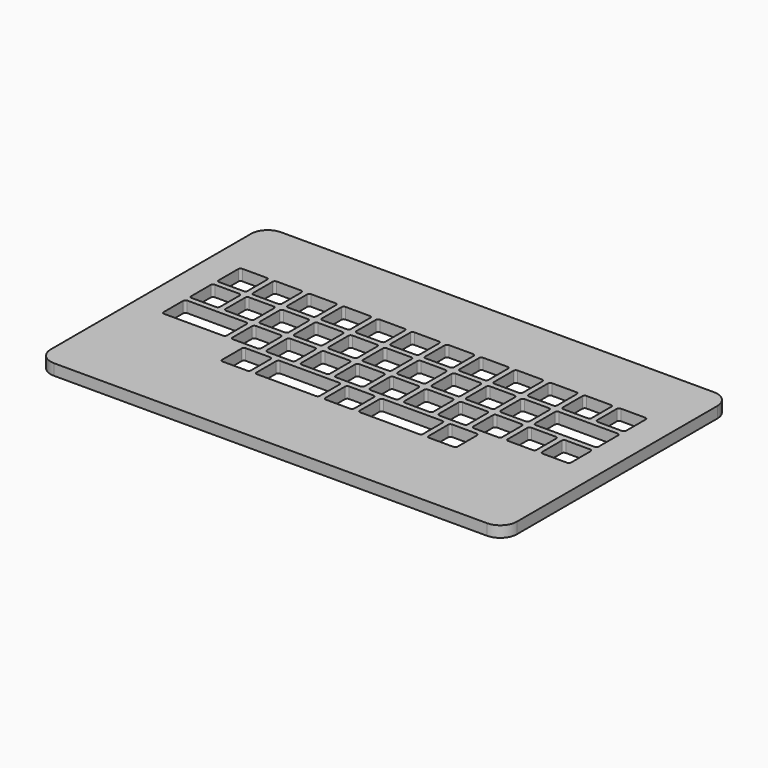
from build123d import *

# Parameters (mm, degrees)
F1_DEPTH = 5
F3_DEPTH = 5


with BuildPart() as f1:
    # F0 (on Top) → F1 (new body)
    with BuildSketch(Plane.XY):
        with BuildLine():
            ThreePointArc((93, -27.5), (93.07612, -27.882683), (93.292893, -28.207107))
            ThreePointArc((93.292893, -28.207107), (93.617317, -28.42388), (94, -28.5))
            Line((94, -28.5), (105, -28.5))
            ThreePointArc((105, -28.5), (105.707107, -28.207107), (106, -27.5))
            Line((106, -27.5), (106, -16.5))
            ThreePointArc((106, -16.5), (105.707107, -15.792893), (105, -15.5))
            Line((105, -15.5), (94, -15.5))
            ThreePointArc((94, -15.5), (93.292893, -15.792893), (93, -16.5))
            Line((93, -16.5), (93, -27.5))
        make_face()
        with BuildLine():
            ThreePointArc((90.5, -32), (90.42388, -31.617317), (90.207107, -31.292893))
            ThreePointArc((90.207107, -31.292893), (89.882683, -31.07612), (89.5, -31))
            Line((89.5, -31), (78.5, -31))
            ThreePointArc((78.5, -31), (77.792893, -31.292893), (77.5, -32))
            Line((77.5, -32), (77.5, -43))
            ThreePointArc((77.5, -43), (77.792893, -43.707107), (78.5, -44))
            Line((78.5, -44), (89.5, -44))
            ThreePointArc((89.5, -44), (90.207107, -43.707107), (90.5, -43))
            Line((90.5, -43), (90.5, -32))
        make_face()
        with BuildLine():
            Line((89.5, -15.5), (78.5, -15.5))
            ThreePointArc((78.5, -15.5), (77.792893, -15.792893), (77.5, -16.5))
            Line((77.5, -16.5), (77.5, -27.5))
            ThreePointArc((77.5, -27.5), (77.792893, -28.207107), (78.5, -28.5))
            Line((78.5, -28.5), (89.5, -28.5))
            ThreePointArc((89.5, -28.5), (89.882683, -28.42388), (90.207107, -28.207107))
            ThreePointArc((90.207107, -28.207107), (90.42388, -27.882683), (90.5, -27.5))
            Line((90.5, -27.5), (90.5, -16.5))
            ThreePointArc((90.5, -16.5), (90.207107, -15.792893), (89.5, -15.5))
        make_face()
        with BuildLine():
            ThreePointArc((196.75, 22.75), (194.553301, 28.053301), (189.25, 30.25))
            Line((189.25, 30.25), (-5.75, 30.25))
            ThreePointArc((-5.75, 30.25), (-11.053301, 28.053301), (-13.25, 22.75))
            Line((-13.25, 22.75), (-13.25, -82.25))
            ThreePointArc((-13.25, -82.25), (-11.053301, -87.553301), (-5.75, -89.75))
            Line((-5.75, -89.75), (189.25, -89.75))
            ThreePointArc((189.25, -89.75), (194.553301, -87.553301), (196.75, -82.25))
            Line((196.75, -82.25), (196.75, 22.75))
        make_face()
        with BuildLine():
            Line((12, -31), (16.5, -31))
            Line((16.5, -31), (27.5, -31))
            ThreePointArc((27.5, -31), (28.207107, -31.292893), (28.5, -32))
            Line((28.5, -32), (28.5, -43))
            ThreePointArc((28.5, -43), (28.207107, -43.707107), (27.5, -44))
            Line((27.5, -44), (16.5, -44))
            Line((16.5, -44), (12, -44))
            Line((12, -44), (1, -44))
            ThreePointArc((1, -44), (0.292893, -43.707107), (0, -43))
            Line((0, -43), (0, -32))
            ThreePointArc((0, -32), (0.292893, -31.292893), (1, -31))
            Line((1, -31), (12, -31))
        make_face(mode=Mode.SUBTRACT)
        with BuildLine():
            Line((31, -43), (31, -32))
            ThreePointArc((31, -32), (31.292893, -31.292893), (32, -31))
            Line((32, -31), (43, -31))
            ThreePointArc((43, -31), (43.707107, -31.292893), (44, -32))
            Line((44, -32), (44, -43))
            ThreePointArc((44, -43), (43.707107, -43.707107), (43, -44))
            Line((43, -44), (32, -44))
            ThreePointArc((32, -44), (31.292893, -43.707107), (31, -43))
        make_face(mode=Mode.SUBTRACT)
        with BuildLine():
            Line((50.75, -59.5), (39.75, -59.5))
            ThreePointArc((39.75, -59.5), (39.042893, -59.207107), (38.75, -58.5))
            Line((38.75, -58.5), (38.75, -47.5))
            ThreePointArc((38.75, -47.5), (39.042893, -46.792893), (39.75, -46.5))
            Line((39.75, -46.5), (50.75, -46.5))
            ThreePointArc((50.75, -46.5), (51.457107, -46.792893), (51.75, -47.5))
            Line((51.75, -47.5), (51.75, -58.5))
            ThreePointArc((51.75, -58.5), (51.457107, -59.207107), (50.75, -59.5))
        make_face(mode=Mode.SUBTRACT)
        with BuildLine():
            Line((81.75, -59.5), (55.25, -59.5))
            ThreePointArc((55.25, -59.5), (54.542893, -59.207107), (54.25, -58.5))
            Line((54.25, -58.5), (54.25, -47.5))
            ThreePointArc((54.25, -47.5), (54.542893, -46.792893), (55.25, -46.5))
            Line((55.25, -46.5), (81.75, -46.5))
            ThreePointArc((81.75, -46.5), (82.457107, -46.792893), (82.75, -47.5))
            Line((82.75, -47.5), (82.75, -58.5))
            ThreePointArc((82.75, -58.5), (82.457107, -59.207107), (81.75, -59.5))
        make_face(mode=Mode.SUBTRACT)
        with BuildLine():
            ThreePointArc((46.5, -32), (46.792893, -31.292893), (47.5, -31))
            Line((47.5, -31), (58.5, -31))
            ThreePointArc((58.5, -31), (59.207107, -31.292893), (59.5, -32))
            Line((59.5, -32), (59.5, -43))
            ThreePointArc((59.5, -43), (59.207107, -43.707107), (58.5, -44))
            Line((58.5, -44), (47.5, -44))
            ThreePointArc((47.5, -44), (46.792893, -43.707107), (46.5, -43))
            Line((46.5, -43), (46.5, -32))
        make_face(mode=Mode.SUBTRACT)
        with BuildLine():
            ThreePointArc((62, -32), (62.292893, -31.292893), (63, -31))
            Line((63, -31), (74, -31))
            ThreePointArc((74, -31), (74.707107, -31.292893), (75, -32))
            Line((75, -32), (75, -43))
            ThreePointArc((75, -43), (74.707107, -43.707107), (74, -44))
            Line((74, -44), (63, -44))
            ThreePointArc((63, -44), (62.292893, -43.707107), (62, -43))
            Line((62, -43), (62, -32))
        make_face(mode=Mode.SUBTRACT)
        with BuildLine():
            ThreePointArc((89.5, -31), (89.882683, -31.07612), (90.207107, -31.292893))
            ThreePointArc((90.207107, -31.292893), (90.42388, -31.617317), (90.5, -32))
            Line((90.5, -32), (90.5, -43))
            ThreePointArc((90.5, -43), (90.207107, -43.707107), (89.5, -44))
            Line((89.5, -44), (78.5, -44))
            ThreePointArc((78.5, -44), (77.792893, -43.707107), (77.5, -43))
            Line((77.5, -43), (77.5, -32))
            ThreePointArc((77.5, -32), (77.792893, -31.292893), (78.5, -31))
            Line((78.5, -31), (89.5, -31))
        make_face(mode=Mode.SUBTRACT)
        with BuildLine():
            Line((86.25, -46.5), (91.75, -46.5))
            Line((91.75, -46.5), (97.25, -46.5))
            ThreePointArc((97.25, -46.5), (97.957107, -46.792893), (98.25, -47.5))
            Line((98.25, -47.5), (98.25, -58.5))
            ThreePointArc((98.25, -58.5), (97.957107, -59.207107), (97.25, -59.5))
            Line((97.25, -59.5), (91.75, -59.5))
            Line((91.75, -59.5), (86.25, -59.5))
            ThreePointArc((86.25, -59.5), (85.542893, -59.207107), (85.25, -58.5))
            Line((85.25, -58.5), (85.25, -47.5))
            ThreePointArc((85.25, -47.5), (85.542893, -46.792893), (86.25, -46.5))
        make_face(mode=Mode.SUBTRACT)
        with BuildLine():
            ThreePointArc((100.75, -47.5), (101.042893, -46.792893), (101.75, -46.5))
            Line((101.75, -46.5), (128.25, -46.5))
            ThreePointArc((128.25, -46.5), (128.957107, -46.792893), (129.25, -47.5))
            Line((129.25, -47.5), (129.25, -58.5))
            ThreePointArc((129.25, -58.5), (128.957107, -59.207107), (128.25, -59.5))
            Line((128.25, -59.5), (101.75, -59.5))
            ThreePointArc((101.75, -59.5), (101.042893, -59.207107), (100.75, -58.5))
            Line((100.75, -58.5), (100.75, -47.5))
        make_face(mode=Mode.SUBTRACT)
        with BuildLine():
            ThreePointArc((131.75, -47.5), (132.042893, -46.792893), (132.75, -46.5))
            Line((132.75, -46.5), (143.75, -46.5))
            ThreePointArc((143.75, -46.5), (144.457107, -46.792893), (144.75, -47.5))
            Line((144.75, -47.5), (144.75, -58.5))
            ThreePointArc((144.75, -58.5), (144.457107, -59.207107), (143.75, -59.5))
            Line((143.75, -59.5), (132.75, -59.5))
            ThreePointArc((132.75, -59.5), (132.042893, -59.207107), (131.75, -58.5))
            Line((131.75, -58.5), (131.75, -47.5))
        make_face(mode=Mode.SUBTRACT)
        with BuildLine():
            Line((105, -44), (94, -44))
            ThreePointArc((94, -44), (93.292893, -43.707107), (93, -43))
            Line((93, -43), (93, -32))
            ThreePointArc((93, -32), (93.292893, -31.292893), (94, -31))
            Line((94, -31), (105, -31))
            ThreePointArc((105, -31), (105.707107, -31.292893), (106, -32))
            Line((106, -32), (106, -43))
            ThreePointArc((106, -43), (105.707107, -43.707107), (105, -44))
        make_face(mode=Mode.SUBTRACT)
        with BuildLine():
            ThreePointArc((120.5, -31), (121.207107, -31.292893), (121.5, -32))
            Line((121.5, -32), (121.5, -43))
            ThreePointArc((121.5, -43), (121.207107, -43.707107), (120.5, -44))
            Line((120.5, -44), (109.5, -44))
            ThreePointArc((109.5, -44), (108.792893, -43.707107), (108.5, -43))
            Line((108.5, -43), (108.5, -32))
            ThreePointArc((108.5, -32), (108.792893, -31.292893), (109.5, -31))
            Line((109.5, -31), (120.5, -31))
        make_face(mode=Mode.SUBTRACT)
        with BuildLine():
            ThreePointArc((124, -32), (124.292893, -31.292893), (125, -31))
            Line((125, -31), (136, -31))
            ThreePointArc((136, -31), (136.707107, -31.292893), (137, -32))
            Line((137, -32), (137, -43))
            ThreePointArc((137, -43), (136.707107, -43.707107), (136, -44))
            Line((136, -44), (125, -44))
            ThreePointArc((125, -44), (124.292893, -43.707107), (124, -43))
            Line((124, -43), (124, -32))
        make_face(mode=Mode.SUBTRACT)
        with BuildLine():
            ThreePointArc((139.5, -32), (139.792893, -31.292893), (140.5, -31))
            Line((140.5, -31), (151.5, -31))
            ThreePointArc((151.5, -31), (152.207107, -31.292893), (152.5, -32))
            Line((152.5, -32), (152.5, -43))
            ThreePointArc((152.5, -43), (152.207107, -43.707107), (151.5, -44))
            Line((151.5, -44), (140.5, -44))
            ThreePointArc((140.5, -44), (139.792893, -43.707107), (139.5, -43))
            Line((139.5, -43), (139.5, -32))
        make_face(mode=Mode.SUBTRACT)
        with BuildLine():
            ThreePointArc((167, -31), (167.707107, -31.292893), (168, -32))
            Line((168, -32), (168, -43))
            ThreePointArc((168, -43), (167.707107, -43.707107), (167, -44))
            Line((167, -44), (156, -44))
            ThreePointArc((156, -44), (155.292893, -43.707107), (155, -43))
            Line((155, -43), (155, -32))
            ThreePointArc((155, -32), (155.292893, -31.292893), (156, -31))
            Line((156, -31), (167, -31))
        make_face(mode=Mode.SUBTRACT)
        with BuildLine():
            ThreePointArc((170.5, -32), (170.792893, -31.292893), (171.5, -31))
            Line((171.5, -31), (182.5, -31))
            ThreePointArc((182.5, -31), (183.207107, -31.292893), (183.5, -32))
            Line((183.5, -32), (183.5, -43))
            ThreePointArc((183.5, -43), (183.207107, -43.707107), (182.5, -44))
            Line((182.5, -44), (171.5, -44))
            ThreePointArc((171.5, -44), (170.792893, -43.707107), (170.5, -43))
            Line((170.5, -43), (170.5, -32))
        make_face(mode=Mode.SUBTRACT)
        with BuildLine():
            ThreePointArc((12, -15.5), (12.707107, -15.792893), (13, -16.5))
            Line((13, -16.5), (13, -27.5))
            ThreePointArc((13, -27.5), (12.707107, -28.207107), (12, -28.5))
            Line((12, -28.5), (1, -28.5))
            ThreePointArc((1, -28.5), (0.292893, -28.207107), (0, -27.5))
            Line((0, -27.5), (0, -16.5))
            ThreePointArc((0, -16.5), (0.292893, -15.792893), (1, -15.5))
            Line((1, -15.5), (12, -15.5))
        make_face(mode=Mode.SUBTRACT)
        with BuildLine():
            ThreePointArc((15.5, -16.5), (15.792893, -15.792893), (16.5, -15.5))
            Line((16.5, -15.5), (27.5, -15.5))
            ThreePointArc((27.5, -15.5), (28.207107, -15.792893), (28.5, -16.5))
            Line((28.5, -16.5), (28.5, -27.5))
            ThreePointArc((28.5, -27.5), (28.207107, -28.207107), (27.5, -28.5))
            Line((27.5, -28.5), (16.5, -28.5))
            ThreePointArc((16.5, -28.5), (15.792893, -28.207107), (15.5, -27.5))
            Line((15.5, -27.5), (15.5, -16.5))
        make_face(mode=Mode.SUBTRACT)
        with BuildLine():
            Line((31, -27.5), (31, -16.5))
            ThreePointArc((31, -16.5), (31.292893, -15.792893), (32, -15.5))
            Line((32, -15.5), (43, -15.5))
            ThreePointArc((43, -15.5), (43.707107, -15.792893), (44, -16.5))
            Line((44, -16.5), (44, -27.5))
            ThreePointArc((44, -27.5), (43.707107, -28.207107), (43, -28.5))
            Line((43, -28.5), (32, -28.5))
            ThreePointArc((32, -28.5), (31.292893, -28.207107), (31, -27.5))
        make_face(mode=Mode.SUBTRACT)
        with BuildLine():
            ThreePointArc((0, -1), (0.292893, -0.292893), (1, 0))
            Line((1, 0), (12, 0))
            ThreePointArc((12, 0), (12.707107, -0.292893), (13, -1))
            Line((13, -1), (13, -12))
            ThreePointArc((13, -12), (12.707107, -12.707107), (12, -13))
            Line((12, -13), (1, -13))
            ThreePointArc((1, -13), (0.292893, -12.707107), (0, -12))
            Line((0, -12), (0, -1))
        make_face(mode=Mode.SUBTRACT)
        with BuildLine():
            Line((27.5, -13), (16.5, -13))
            ThreePointArc((16.5, -13), (15.792893, -12.707107), (15.5, -12))
            Line((15.5, -12), (15.5, -1))
            ThreePointArc((15.5, -1), (15.792893, -0.292893), (16.5, 0))
            Line((16.5, 0), (27.5, 0))
            ThreePointArc((27.5, 0), (28.207107, -0.292893), (28.5, -1))
            Line((28.5, -1), (28.5, -12))
            ThreePointArc((28.5, -12), (28.207107, -12.707107), (27.5, -13))
        make_face(mode=Mode.SUBTRACT)
        with BuildLine():
            Line((43, -13), (32, -13))
            ThreePointArc((32, -13), (31.292893, -12.707107), (31, -12))
            Line((31, -12), (31, -1))
            ThreePointArc((31, -1), (31.292893, -0.292893), (32, 0))
            Line((32, 0), (43, 0))
            ThreePointArc((43, 0), (43.707107, -0.292893), (44, -1))
            Line((44, -1), (44, -12))
            ThreePointArc((44, -12), (43.707107, -12.707107), (43, -13))
        make_face(mode=Mode.SUBTRACT)
        with BuildLine():
            ThreePointArc((46.5, -16.5), (46.792893, -15.792893), (47.5, -15.5))
            Line((47.5, -15.5), (58.5, -15.5))
            ThreePointArc((58.5, -15.5), (59.207107, -15.792893), (59.5, -16.5))
            Line((59.5, -16.5), (59.5, -27.5))
            ThreePointArc((59.5, -27.5), (59.207107, -28.207107), (58.5, -28.5))
            Line((58.5, -28.5), (47.5, -28.5))
            ThreePointArc((47.5, -28.5), (46.792893, -28.207107), (46.5, -27.5))
            Line((46.5, -27.5), (46.5, -16.5))
        make_face(mode=Mode.SUBTRACT)
        with BuildLine():
            ThreePointArc((62, -16.5), (62.292893, -15.792893), (63, -15.5))
            Line((63, -15.5), (74, -15.5))
            ThreePointArc((74, -15.5), (74.707107, -15.792893), (75, -16.5))
            Line((75, -16.5), (75, -27.5))
            ThreePointArc((75, -27.5), (74.707107, -28.207107), (74, -28.5))
            Line((74, -28.5), (63, -28.5))
            ThreePointArc((63, -28.5), (62.292893, -28.207107), (62, -27.5))
            Line((62, -27.5), (62, -16.5))
        make_face(mode=Mode.SUBTRACT)
        with BuildLine():
            ThreePointArc((77.5, -16.5), (77.792893, -15.792893), (78.5, -15.5))
            Line((78.5, -15.5), (89.5, -15.5))
            ThreePointArc((89.5, -15.5), (90.207107, -15.792893), (90.5, -16.5))
            Line((90.5, -16.5), (90.5, -27.5))
            ThreePointArc((90.5, -27.5), (90.42388, -27.882683), (90.207107, -28.207107))
            ThreePointArc((90.207107, -28.207107), (89.882683, -28.42388), (89.5, -28.5))
            Line((89.5, -28.5), (78.5, -28.5))
            ThreePointArc((78.5, -28.5), (77.792893, -28.207107), (77.5, -27.5))
            Line((77.5, -27.5), (77.5, -16.5))
        make_face(mode=Mode.SUBTRACT)
        with BuildLine():
            Line((58.5, -13), (47.5, -13))
            ThreePointArc((47.5, -13), (46.792893, -12.707107), (46.5, -12))
            Line((46.5, -12), (46.5, -1))
            ThreePointArc((46.5, -1), (46.792893, -0.292893), (47.5, 0))
            Line((47.5, 0), (58.5, 0))
            ThreePointArc((58.5, 0), (59.207107, -0.292893), (59.5, -1))
            Line((59.5, -1), (59.5, -12))
            ThreePointArc((59.5, -12), (59.207107, -12.707107), (58.5, -13))
        make_face(mode=Mode.SUBTRACT)
        with BuildLine():
            Line((74, -13), (63, -13))
            ThreePointArc((63, -13), (62.292893, -12.707107), (62, -12))
            Line((62, -12), (62, -1))
            ThreePointArc((62, -1), (62.292893, -0.292893), (63, 0))
            Line((63, 0), (74, 0))
            ThreePointArc((74, 0), (74.707107, -0.292893), (75, -1))
            Line((75, -1), (75, -12))
            ThreePointArc((75, -12), (74.707107, -12.707107), (74, -13))
        make_face(mode=Mode.SUBTRACT)
        with BuildLine():
            Line((89.5, -13), (78.5, -13))
            ThreePointArc((78.5, -13), (77.792893, -12.707107), (77.5, -12))
            Line((77.5, -12), (77.5, -1))
            ThreePointArc((77.5, -1), (77.792893, -0.292893), (78.5, 0))
            Line((78.5, 0), (89.5, 0))
            ThreePointArc((89.5, 0), (90.207107, -0.292893), (90.5, -1))
            Line((90.5, -1), (90.5, -12))
            ThreePointArc((90.5, -12), (90.207107, -12.707107), (89.5, -13))
        make_face(mode=Mode.SUBTRACT)
        with BuildLine():
            ThreePointArc((94, -28.5), (93.617317, -28.42388), (93.292893, -28.207107))
            ThreePointArc((93.292893, -28.207107), (93.07612, -27.882683), (93, -27.5))
            Line((93, -27.5), (93, -16.5))
            ThreePointArc((93, -16.5), (93.292893, -15.792893), (94, -15.5))
            Line((94, -15.5), (105, -15.5))
            ThreePointArc((105, -15.5), (105.707107, -15.792893), (106, -16.5))
            Line((106, -16.5), (106, -27.5))
            ThreePointArc((106, -27.5), (105.707107, -28.207107), (105, -28.5))
            Line((105, -28.5), (94, -28.5))
        make_face(mode=Mode.SUBTRACT)
        with BuildLine():
            ThreePointArc((120.5, -15.5), (121.207107, -15.792893), (121.5, -16.5))
            Line((121.5, -16.5), (121.5, -27.5))
            ThreePointArc((121.5, -27.5), (121.207107, -28.207107), (120.5, -28.5))
            Line((120.5, -28.5), (109.5, -28.5))
            ThreePointArc((109.5, -28.5), (108.792893, -28.207107), (108.5, -27.5))
            Line((108.5, -27.5), (108.5, -16.5))
            ThreePointArc((108.5, -16.5), (108.792893, -15.792893), (109.5, -15.5))
            Line((109.5, -15.5), (120.5, -15.5))
        make_face(mode=Mode.SUBTRACT)
        with BuildLine():
            ThreePointArc((124, -16.5), (124.292893, -15.792893), (125, -15.5))
            Line((125, -15.5), (136, -15.5))
            ThreePointArc((136, -15.5), (136.707107, -15.792893), (137, -16.5))
            Line((137, -16.5), (137, -27.5))
            ThreePointArc((137, -27.5), (136.707107, -28.207107), (136, -28.5))
            Line((136, -28.5), (125, -28.5))
            ThreePointArc((125, -28.5), (124.292893, -28.207107), (124, -27.5))
            Line((124, -27.5), (124, -16.5))
        make_face(mode=Mode.SUBTRACT)
        with BuildLine():
            Line((105, -13), (94, -13))
            ThreePointArc((94, -13), (93.292893, -12.707107), (93, -12))
            Line((93, -12), (93, -1))
            ThreePointArc((93, -1), (93.292893, -0.292893), (94, 0))
            Line((94, 0), (105, 0))
            ThreePointArc((105, 0), (105.707107, -0.292893), (106, -1))
            Line((106, -1), (106, -12))
            ThreePointArc((106, -12), (105.707107, -12.707107), (105, -13))
        make_face(mode=Mode.SUBTRACT)
        with BuildLine():
            Line((120.5, -13), (109.5, -13))
            ThreePointArc((109.5, -13), (108.792893, -12.707107), (108.5, -12))
            Line((108.5, -12), (108.5, -1))
            ThreePointArc((108.5, -1), (108.792893, -0.292893), (109.5, 0))
            Line((109.5, 0), (120.5, 0))
            ThreePointArc((120.5, 0), (121.207107, -0.292893), (121.5, -1))
            Line((121.5, -1), (121.5, -12))
            ThreePointArc((121.5, -12), (121.207107, -12.707107), (120.5, -13))
        make_face(mode=Mode.SUBTRACT)
        with BuildLine():
            Line((136, -13), (125, -13))
            ThreePointArc((125, -13), (124.292893, -12.707107), (124, -12))
            Line((124, -12), (124, -1))
            ThreePointArc((124, -1), (124.292893, -0.292893), (125, 0))
            Line((125, 0), (136, 0))
            ThreePointArc((136, 0), (136.707107, -0.292893), (137, -1))
            Line((137, -1), (137, -12))
            ThreePointArc((137, -12), (136.707107, -12.707107), (136, -13))
        make_face(mode=Mode.SUBTRACT)
        with BuildLine():
            ThreePointArc((139.5, -16.5), (139.792893, -15.792893), (140.5, -15.5))
            Line((140.5, -15.5), (151.5, -15.5))
            ThreePointArc((151.5, -15.5), (152.207107, -15.792893), (152.5, -16.5))
            Line((152.5, -16.5), (152.5, -27.5))
            ThreePointArc((152.5, -27.5), (152.207107, -28.207107), (151.5, -28.5))
            Line((151.5, -28.5), (140.5, -28.5))
            ThreePointArc((140.5, -28.5), (139.792893, -28.207107), (139.5, -27.5))
            Line((139.5, -27.5), (139.5, -16.5))
        make_face(mode=Mode.SUBTRACT)
        with BuildLine():
            Line((155, -27.5), (155, -16.5))
            ThreePointArc((155, -16.5), (155.292893, -15.792893), (156, -15.5))
            Line((156, -15.5), (182.5, -15.5))
            ThreePointArc((182.5, -15.5), (183.207107, -15.792893), (183.5, -16.5))
            Line((183.5, -16.5), (183.5, -27.5))
            ThreePointArc((183.5, -27.5), (183.207107, -28.207107), (182.5, -28.5))
            Line((182.5, -28.5), (171.5, -28.5))
            Line((171.5, -28.5), (167, -28.5))
            Line((167, -28.5), (156, -28.5))
            ThreePointArc((156, -28.5), (155.292893, -28.207107), (155, -27.5))
        make_face(mode=Mode.SUBTRACT)
        with BuildLine():
            Line((151.5, -13), (140.5, -13))
            ThreePointArc((140.5, -13), (139.792893, -12.707107), (139.5, -12))
            Line((139.5, -12), (139.5, -1))
            ThreePointArc((139.5, -1), (139.792893, -0.292893), (140.5, 0))
            Line((140.5, 0), (151.5, 0))
            ThreePointArc((151.5, 0), (152.207107, -0.292893), (152.5, -1))
            Line((152.5, -1), (152.5, -12))
            ThreePointArc((152.5, -12), (152.207107, -12.707107), (151.5, -13))
        make_face(mode=Mode.SUBTRACT)
        with BuildLine():
            Line((167, -13), (156, -13))
            ThreePointArc((156, -13), (155.292893, -12.707107), (155, -12))
            Line((155, -12), (155, -1))
            ThreePointArc((155, -1), (155.292893, -0.292893), (156, 0))
            Line((156, 0), (167, 0))
            ThreePointArc((167, 0), (167.707107, -0.292893), (168, -1))
            Line((168, -1), (168, -12))
            ThreePointArc((168, -12), (167.707107, -12.707107), (167, -13))
        make_face(mode=Mode.SUBTRACT)
        with BuildLine():
            Line((182.5, -13), (171.5, -13))
            ThreePointArc((171.5, -13), (170.792893, -12.707107), (170.5, -12))
            Line((170.5, -12), (170.5, -1))
            ThreePointArc((170.5, -1), (170.792893, -0.292893), (171.5, 0))
            Line((171.5, 0), (182.5, 0))
            ThreePointArc((182.5, 0), (183.207107, -0.292893), (183.5, -1))
            Line((183.5, -1), (183.5, -12))
            ThreePointArc((183.5, -12), (183.207107, -12.707107), (182.5, -13))
        make_face(mode=Mode.SUBTRACT)
    extrude(amount=F1_DEPTH)

    # F2 (on face) → F3 (join, through all)
    with BuildSketch(Plane.XY.offset(5)):
        with BuildLine():
            Line((196.75, -82.25), (-13.25, -82.25))
            Line((-13.25, -82.25), (-13.25, -90.05))
            ThreePointArc((-13.25, -90.05), (-11.053301, -95.353301), (-5.75, -97.55))
            Line((-5.75, -97.55), (189.25, -97.55))
            ThreePointArc((189.25, -97.55), (194.553301, -95.353301), (196.75, -90.05))
            Line((196.75, -90.05), (196.75, -82.25))
        make_face()
    extrude(amount=-F3_DEPTH)


solid = f1.part
